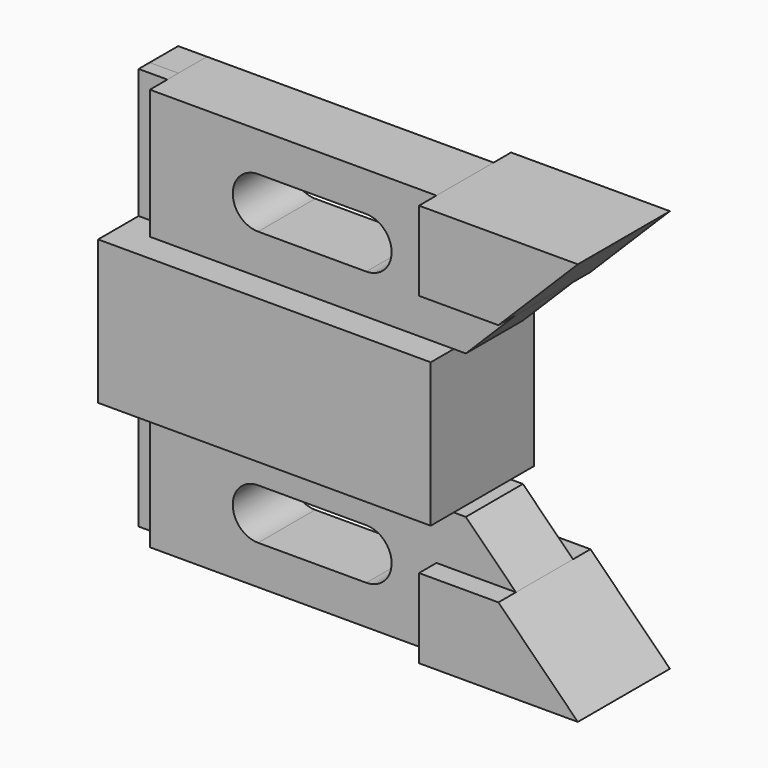
from build123d import *

# Parameters (mm, degrees)
F1_DEPTH = 14.224
F2_DEPTH = 12.7
F3_DEPTH = 7.874
F0_W     = 6.35
F0_H     = 28.575
F4_DEPTH = 3.048
F5_DEPTH = 7.874


with BuildPart() as f1:
    # F0 (on Front) → F1 (new body, symmetric)
    with BuildSketch(Plane.XZ):
        Polygon((6.35, 15.875), (0, 15.875), (0, 0), (0, -15.875), (6.35, -15.875), (73.406, -15.875), (73.406, 0), (73.406, 15.875), align=None)
    extrude(amount=F1_DEPTH, both=True)


with BuildPart() as f2:
    # F0 (on Front) → F2 (new body, symmetric)
    with BuildSketch(Plane.XZ):
        Polygon((69.596, -26.924), (69.596, -44.45), (104.648, -44.45), (87.122, -26.924), align=None)
        Polygon((104.648, 44.45), (69.596, 44.45), (69.596, 26.924), (87.122, 26.924), align=None)
    extrude(amount=F2_DEPTH, both=True)


with BuildPart() as f3:
    # F0 (on Front) → F3 (new body, symmetric)
    with BuildSketch(Plane.XZ):
        Polygon((69.596, 44.45), (6.35, 44.45), (6.35, 15.875), (73.406, 15.875), (76.073, 15.875), (87.122, 26.924), (69.596, 26.924), align=None)
        with BuildLine():
            Line((54.102, 24.638), (30.226, 24.638))
            ThreePointArc((30.226, 24.638), (24.638, 30.226), (30.226, 35.814))
            Line((30.226, 35.814), (54.102, 35.814))
            ThreePointArc((54.102, 35.814), (59.69, 30.226), (54.102, 24.638))
        make_face(mode=Mode.SUBTRACT)
        Polygon((73.406, -15.875), (6.35, -15.875), (6.35, -44.45), (69.596, -44.45), (69.596, -26.924), (87.122, -26.924), (76.073, -15.875), align=None)
        with BuildLine():
            ThreePointArc((30.226, -35.814), (24.638, -30.226), (30.226, -24.638))
            Line((30.226, -24.638), (54.102, -24.638))
            ThreePointArc((54.102, -24.638), (59.69, -30.226), (54.102, -35.814))
            Line((54.102, -35.814), (30.226, -35.814))
        make_face(mode=Mode.SUBTRACT)
    extrude(amount=F3_DEPTH, both=True)


with BuildPart() as f4:
    # F0 (on Front) → F4 (new body)
    with BuildSketch(Plane.XZ):
        with Locations((3.175, 30.1625)):
            Rectangle(F0_W, F0_H)
        with Locations((3.175, -30.1625)):
            Rectangle(F0_W, F0_H)
    extrude(amount=F4_DEPTH)


with BuildPart() as f5:
    # F0 (on Front) → F5 (new body)
    with BuildSketch(Plane.XZ):
        with Locations((3.175, -30.1625)):
            Rectangle(F0_W, F0_H)
        with Locations((3.175, 30.1625)):
            Rectangle(F0_W, F0_H)
    extrude(amount=-F5_DEPTH)


solid = Compound([f1.part, f2.part, f3.part, f4.part, f5.part])
